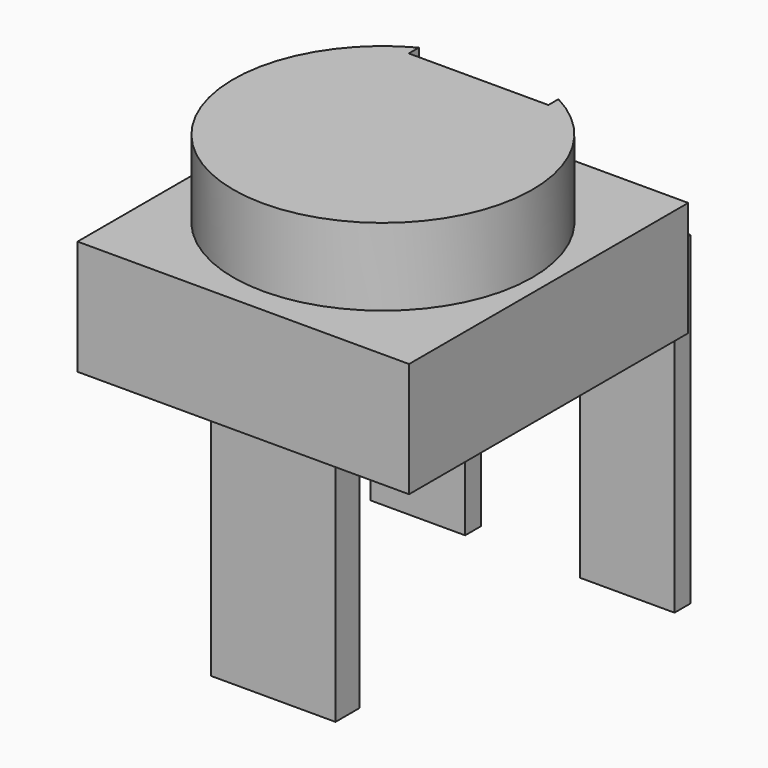
from build123d import *

# Parameters (mm, degrees)
F0_W     = 6.65
F0_H     = 7
F1_DEPTH = 2.3
F2_R     = 3
F3_DEPTH = 0.1
F4_W     = 2.5
F4_H     = 0.6
F5_DEPTH = 5
F6_W     = 1.9
F6_H     = 6.510749
F7_DEPTH = 0.4
F9_DEPTH = 1.65


with BuildPart() as f1:
    # F0 (on Top) → F1 (new body)
    with BuildSketch(Plane.XY):
        Rectangle(F0_W, F0_H)
    extrude(amount=F1_DEPTH)

    # F2 (on face) → F3 (cut)
    with BuildSketch(Plane.XY.offset(2.3)):
        Circle(F2_R)
    extrude(amount=-F3_DEPTH, mode=Mode.SUBTRACT)

    # F4 (on face) → F5 (join)
    with BuildSketch(Plane(origin=(0, 0, 0), x_dir=(1, 0, 0), z_dir=(0, 0, -1))):
        with Locations((0, 2.45)):
            Rectangle(F4_W, F4_H)
    extrude(amount=F5_DEPTH)

    # F6 (on face) → F7 (join)
    with BuildSketch(Plane(origin=(0, 3.5, 0), x_dir=(-1, 0, 0), z_dir=(0, 1, 0))):
        with Locations((2.1, -1.771215)):
            Rectangle(F6_W, F6_H)
        with Locations((-2.1, -1.771215)):
            Rectangle(F6_W, F6_H)
    extrude(amount=F7_DEPTH)


with BuildPart() as f9:
    # F8 (on face) → F9 (new body)
    with BuildSketch(Plane.XY.offset(2.2)):
        with BuildLine():
            Line((-1.4, 2.4), (-1.4, 2.6533))
            ThreePointArc((-1.4, 2.6533), (0, -3), (1.4, 2.6533))
            Line((1.4, 2.6533), (1.4, 2.4))
            Line((1.4, 2.4), (-1.4, 2.4))
        make_face()
    extrude(amount=F9_DEPTH)


solid = Compound([f1.part, f9.part])
